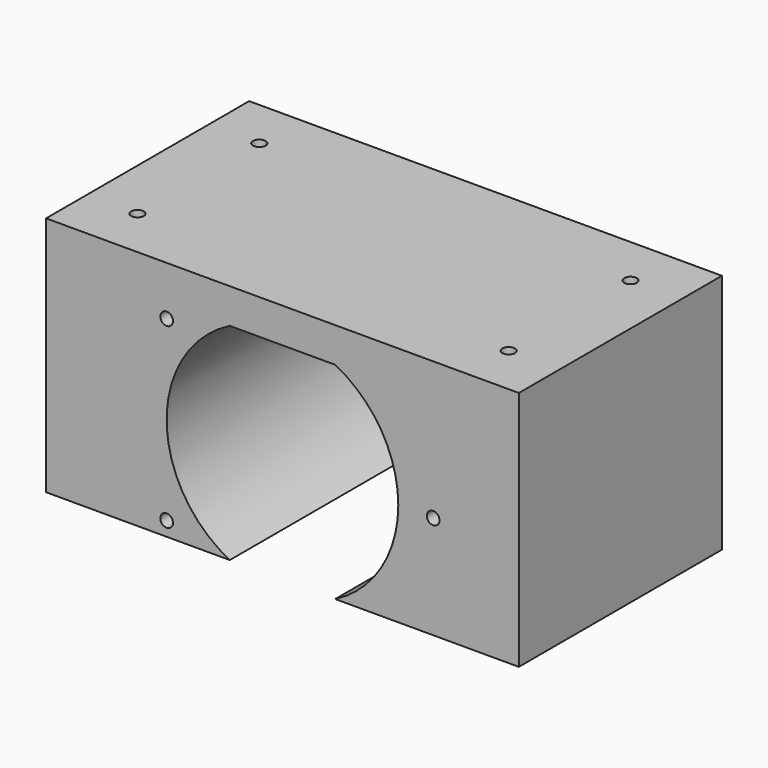
from build123d import *

# Parameters (mm, degrees)
F0_R     = 1
F1_DEPTH = 40
F2_R     = 1
F3_DEPTH = 46.1


with BuildPart() as f1:
    # F0 (on Front) → F1 (new body)
    with BuildSketch(Plane.XZ):
        with BuildLine():
            Line((-8.306624, 16.25), (-37.25, 16.25))
            Line((-37.25, 16.25), (-37.25, -16.25))
            Line((-37.25, -16.25), (-8.306624, -16.25))
            ThreePointArc((-8.306624, -16.25), (-18.25, 0), (-8.306624, 16.25))
        make_face()
        with Locations((-18.25, -14)):
            Circle(F0_R, mode=Mode.SUBTRACT)
        with Locations((-18.25, 14)):
            Circle(F0_R, mode=Mode.SUBTRACT)
        with BuildLine():
            Line((37.25, 21.75), (-37.25, 21.75))
            Line((-37.25, 21.75), (-37.25, 16.25))
            Line((-37.25, 16.25), (-8.306624, 16.25))
            ThreePointArc((-8.306624, 16.25), (0, 18.25), (8.306624, 16.25))
            Line((8.306624, 16.25), (37.25, 16.25))
            Line((37.25, 16.25), (37.25, 21.75))
        make_face()
        with BuildLine():
            Line((37.25, -16.25), (37.25, 16.25))
            Line((37.25, 16.25), (8.306624, 16.25))
            ThreePointArc((8.306624, 16.25), (15.566926, 9.525403), (18.25, 0))
            ThreePointArc((18.25, 0), (15.566926, -9.525403), (8.306624, -16.25))
            Line((8.306624, -16.25), (37.25, -16.25))
        make_face()
        with Locations((23.75, 0)):
            Circle(F0_R, mode=Mode.SUBTRACT)
        with BuildLine():
            ThreePointArc((8.306624, 16.25), (0, 18.25), (-8.306624, 16.25))
            Line((-8.306624, 16.25), (8.306624, 16.25))
        make_face()
    extrude(amount=F1_DEPTH)

    # F2 (on face) → F3 (cut)
    with BuildSketch(Plane.XY.offset(21.75)):
        with Locations((-29.25, -8)):
            Circle(F2_R)
        with Locations((-29.25, -32)):
            Circle(F2_R)
        with Locations((29.25, -32)):
            Circle(F2_R)
        with Locations((29.25, -8)):
            Circle(F2_R)
    extrude(amount=-F3_DEPTH, mode=Mode.SUBTRACT)


solid = f1.part
